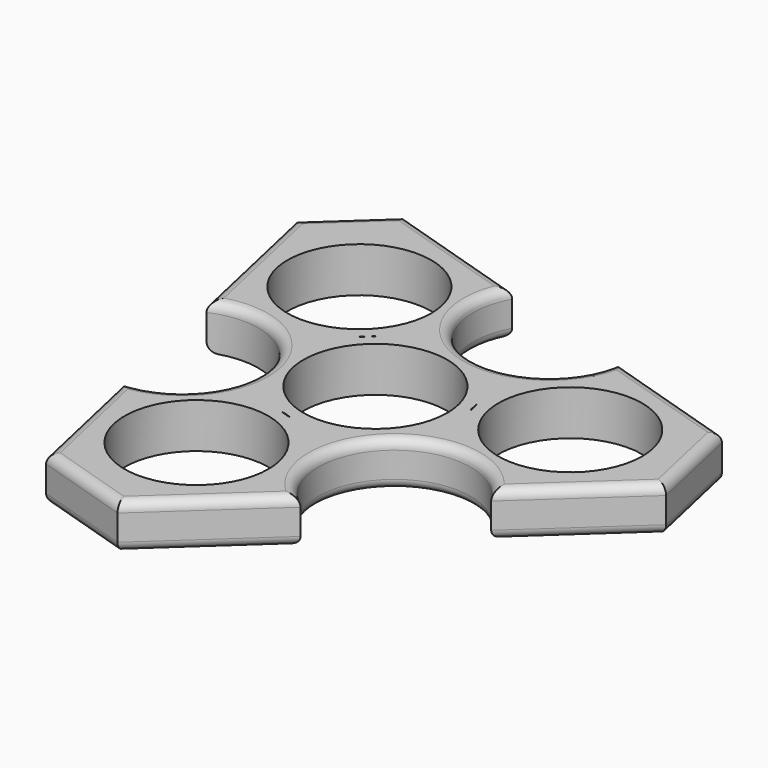
from build123d import *

# Parameters (mm, degrees)
F0_R     = 11.2
F1_DEPTH = 7
F2_R     = 1.5
F3_R     = 1.5


with BuildPart() as f1:
    # F0 (on Top) → F1 (new body)
    with BuildSketch(Plane.XY):
        with BuildLine():
            Line((28.0813976314, -12.5551336157), (43.770879147, 1.8875008302))
            Line((43.770879147, 1.8875008302), (40.3906938734, 16.9718699354))
            Line((40.3906938734, 16.9718699354), (19.0039249119, 23.6615803611))
            ThreePointArc((19.0039249119, 23.6615803611), (3.6680979402, 13.5419232573), (-3.1676341566, 30.5967705304))
            Line((-3.1676341566, 30.5967705304), (-25.3813065432, 37.545133606))
            Line((-25.3813065432, 37.545133606), (-35.3198471357, 28.3964113514))
            Line((-35.3198471357, 28.3964113514), (-29.9934921424, 4.6270915647))
            ThreePointArc((-29.9934921424, 4.6270915647), (-13.561698527, -3.5942956289), (-24.9137634748, -18.0416369147))
            Line((-24.9137634748, -18.0416369147), (-20.2713723425, -38.7587088214))
            Line((-20.2713723425, -38.7587088214), (-5.4281099044, -43.4016321008))
            Line((-5.4281099044, -43.4016321008), (10.9895672305, -28.2886719259))
            ThreePointArc((10.9895672305, -28.2886719259), (9.8936005869, -9.9476276284), (28.0813976314, -12.5551336157))
        make_face()
        with Locations((-7.7367659647, -25.1504527726)):
            Circle(F0_R, mode=Mode.SUBTRACT)
        with BuildLine():
            ThreePointArc((-4.888580779, -12.261393802), (-3.8556736199, -12.533911162), (-2.8481851858, -12.8890589706))
            ThreePointArc((-2.8481851858, -12.8890589706), (-3.8810923448, -12.6165416106), (-4.888580779, -12.261393802))
        make_face(mode=Mode.SUBTRACT)
        Circle(F0_R, mode=Mode.SUBTRACT)
        with BuildLine():
            ThreePointArc((-9.7381599065, 8.9111302108), (-8.9856993702, 9.6693953703), (-8.1743881288, 10.364332044))
            ThreePointArc((-8.1743881288, 10.364332044), (-8.9268486652, 9.6060668845), (-9.7381599065, 8.9111302108))
        make_face(mode=Mode.SUBTRACT)
        with Locations((-17.9125480354, 19.2754622549)):
            Circle(F0_R, mode=Mode.SUBTRACT)
        with BuildLine():
            ThreePointArc((13.0629689078, 1.897061758), (12.782522285, 2.9278442775), (12.5863450923, 3.9779287598))
            ThreePointArc((12.5863450923, 3.9779287598), (12.8667917151, 2.9471462402), (13.0629689078, 1.897061758))
        make_face(mode=Mode.SUBTRACT)
        with Locations((25.6493140001, 5.8749905177)):
            Circle(F0_R, mode=Mode.SUBTRACT)
    extrude(amount=F1_DEPTH)

    # F2
    f2_edges = [f1.edges().sort_by_distance(p)[0] for p in [
        (-12.849741, -41.08017, 7),
        (2.780729, -35.845152, 7),
        (9.893601, -9.947628, 7),
        (35.926138, -5.333816, 7),
        (42.080787, 9.429685, 7),
        (29.697309, 20.316725, 7),
        (3.668098, 13.541923, 7),
        (-13.561699, -3.594296, 7),
        (-22.592568, -28.400173, 7),
        (-32.65667, 16.511751, 7),
        (-14.27447, 34.070952, 7),
        (-30.350577, 32.970772, 7),
    ]]
    fillet(f2_edges, radius=F2_R)

    # F3
    f3_edges = [f1.edges().sort_by_distance(p)[0] for p in [
        (-12.849741, -41.08017, 0),
        (-22.592568, -28.400173, 0),
        (2.780729, -35.845152, 0),
        (29.697309, 20.316725, 5.5),
        (42.080787, 9.429685, 0),
        (35.926138, -5.333816, 0),
        (-14.27447, 34.070952, 0),
        (-30.350577, 32.970772, 0),
        (-32.65667, 16.511751, 0),
        (-13.561699, -3.594296, 5.5),
        (9.893601, -9.947628, 0),
        (3.668098, 13.541923, 0),
    ]]
    fillet(f3_edges, radius=F3_R)


solid = f1.part
